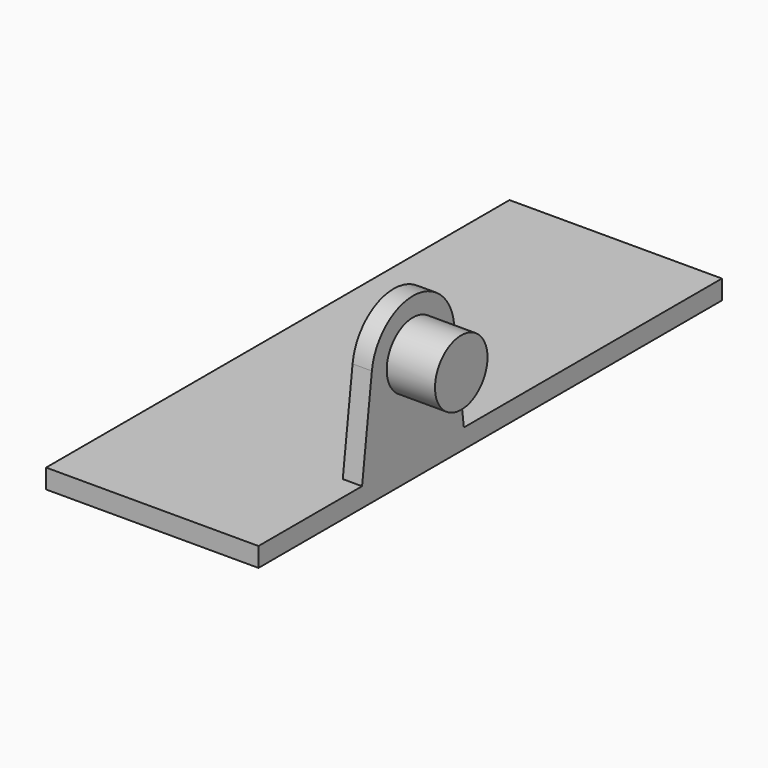
from build123d import *

# Parameters (mm, degrees)
F4_W     = 110
F4_H     = 300
F5_DEPTH = 9.9999997765
F0_R     = 16.989496858
F1_DEPTH = 10
F2_DEPTH = 25


with BuildPart() as f5:
    # F4 (on Top) → F5 (new body)
    with BuildSketch(Plane.XY):
        with Locations((155, 50)):
            Rectangle(F4_W, F4_H)
    extrude(amount=-F5_DEPTH)

    # F0 (on face) → F1 (join)
    with BuildSketch(Plane.YZ.offset(210)):
        with BuildLine():
            ThreePointArc((26.601998421, 49.9582877529), (0, 73.3968899806), (-26.601998421, 49.9582877529))
            Line((-26.601998421, 49.9582877529), (-32.9437274149, 0))
            Line((-32.9437274149, 0), (32.9437274149, 0))
            Line((32.9437274149, 0), (26.601998421, 49.9582877529))
        make_face()
        with Locations((0, 46.5814173222)):
            Circle(F0_R, mode=Mode.SUBTRACT)
        with Locations((0, 46.5814173222)):
            Circle(F0_R)
    extrude(amount=-F1_DEPTH)

    # F0 (on face) → F2 (join)
    with BuildSketch(Plane.YZ.offset(210)):
        with Locations((0, 46.5814173222)):
            Circle(F0_R)
    extrude(amount=F2_DEPTH)


solid = f5.part
